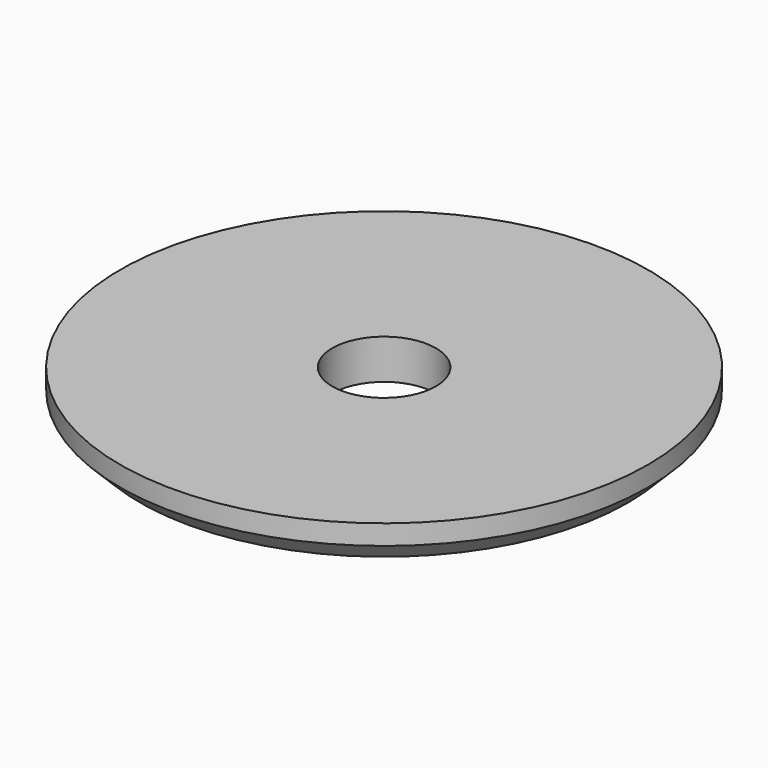
from build123d import *

# Parameters (mm, degrees)
CYLINDER1981_R     = 2.6
CYLINDER1981_DEPTH = 33
CYLINDER1980_R     = 13.25
CYLINDER1980_DEPTH = 2
CHAMFER100_SIZE    = 1


with BuildPart() as obj1:
    # Cylinder1981 → Cylinder1981 (new body)
    with BuildSketch(Plane.XY.offset(42)):
        Circle(CYLINDER1981_R)
    extrude(amount=CYLINDER1981_DEPTH)


with BuildPart() as chamfer100:
    # Cylinder1980 → Cylinder1980 (new body)
    with BuildSketch(Plane.XY.offset(46.65)):
        Circle(CYLINDER1980_R)
    extrude(amount=CYLINDER1980_DEPTH)

    # Cut740: cut obj1
    add(obj1.part, mode=Mode.SUBTRACT)

    # Chamfer100
    chamfer100_edges = [chamfer100.edges().sort_by_distance(p)[0] for p in [
        (-13.25, 0, 46.65),
    ]]
    chamfer(chamfer100_edges, length=CHAMFER100_SIZE)


solid = chamfer100.part
